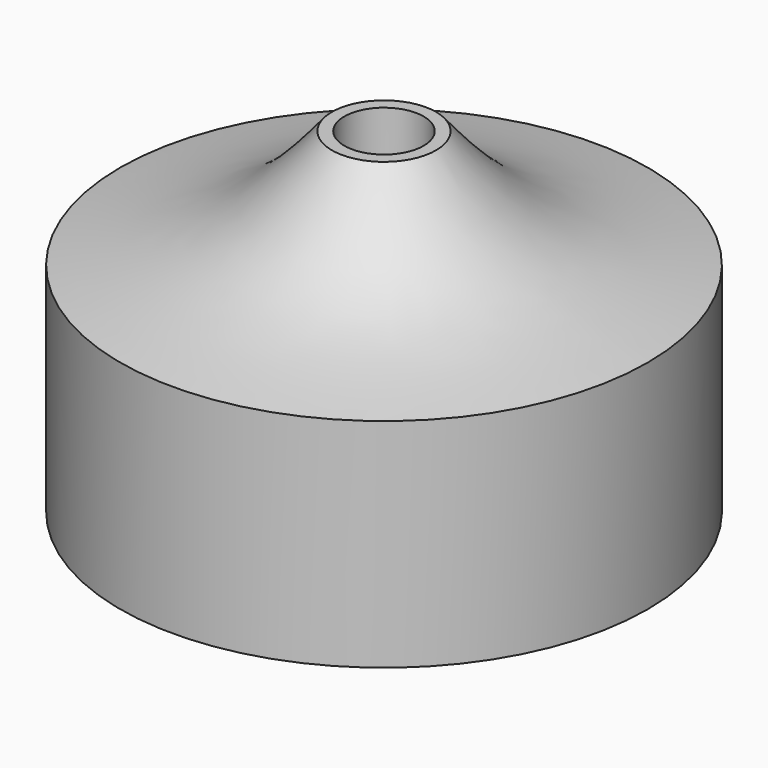
from build123d import *


with BuildPart() as f1:
    # F0 (on Front) → F1 (revolve)
    with BuildSketch(Plane.XZ):
        with BuildLine():
            Line((4.7717643902, 41.4658971131), (0, 41.4658971131))
            Line((0, 41.4658971131), (0, 17.4730662256))
            Line((0, 17.4730662256), (1.5952299582, 17.4730662256))
            Line((1.5952299582, 17.4730662256), (1.5952299582, 0))
            Line((1.5952299582, 0), (2.9217759147, 0))
            add(Edge.make_bspline(
                [(2.9217759147, 0), (6.0191128296, 2.7721635984), (10.5546304942, 10.9590988462), (24.8428024352, 10.7982652262), (31.730722636, 10.721267201)],
                knots=[0, 0, 0, 0, 0.4390936703, 1, 1, 1, 1], degree=3))
            Line((31.730722636, 10.721267201), (31.730722636, 36.8330441415))
            add(Edge.make_bspline(
                [(6.2562655658, 51.0120689869), (9.2523534978, 47.4088534809), (15.4833075236, 39.9152582753), (26.1783022863, 37.8863654459), (31.730722636, 36.8330441415)],
                knots=[0, 0, 0, 0, 0.4808393578, 1, 1, 1, 1], degree=3))
            Line((6.2562655658, 51.0120689869), (4.7717643902, 51.0120689869))
            Line((4.7717643902, 51.0120689869), (4.7717643902, 41.4658971131))
        make_face()
    revolve(axis=Axis((0, 0, 29.4694816694), (0, 0, 1)))


solid = f1.part
